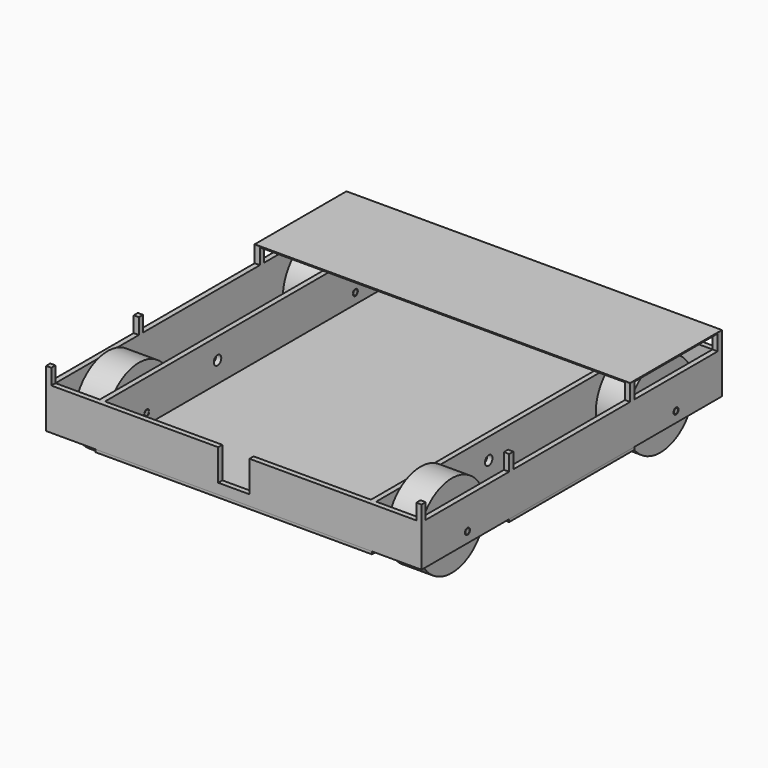
from build123d import *

# Parameters (mm, degrees)
F0_W          = 12.7
F0_H          = 889
F1_DEPTH      = 76.2
F1_DEPTH_BACK = 25.4
F2_R          = 7.62
F3_DEPTH      = 12.701
F3_DEPTH_BACK = 901.701
F4_W          = 19.05
F4_H          = 6.35
F4_W_2        = 6.35
F4_H_2        = 19.05
F8_W          = 12.7
F8_H          = 12.7
F9_DEPTH      = 38.1
F10_W         = 914.4
F10_H         = 279.4
F11_DEPTH     = 2.54
F13_DEPTH     = 6.35
F14_R         = 11.43
F15_DEPTH     = 762
F16_W         = 76.2
F16_H         = 76.2
F17_DEPTH     = 25.4


with BuildPart() as f1:
    # F0 (on Top) → F1 (new body, two sides)
    with BuildSketch(Plane.XY) as f1_sk:
        with Locations((-450.85, 0)):
            Rectangle(F0_W, F0_H)
        with Locations((-330.2, 0)):
            Rectangle(F0_W, F0_H)
        Polygon((-323.85, 444.5), (0, 444.5), (323.85, 444.5), (336.55, 444.5), (444.5, 444.5), (457.2, 444.5), (457.2, 457.2), (-457.2, 457.2), (-457.2, 444.5), (-444.5, 444.5), (-336.55, 444.5), align=None)
        with Locations((330.2, 0)):
            Rectangle(F0_W, F0_H)
        with Locations((450.85, 0)):
            Rectangle(F0_W, F0_H)
        Polygon((-254, -444.5), (-323.85, -444.5), (-336.55, -444.5), (-444.5, -444.5), (-457.2, -444.5), (-457.2, -457.2), (-241.3, -457.2), (-38.1, -457.2), (457.2, -457.2), (457.2, -444.5), (444.5, -444.5), (336.55, -444.5), (323.85, -444.5), (114.3, -444.5), align=None)
    extrude(amount=F1_DEPTH)
    extrude(f1_sk.sketch, amount=-F1_DEPTH_BACK)

    # F2 (on face) → F3 (cut, two sides)
    with BuildSketch(Plane(origin=(444.5, 0, 0), x_dir=(0, -1, 0), z_dir=(-1, 0, 0))) as f3_sk:
        with Locations((-317.5, 0)):
            Circle(F2_R)
        with Locations((317.5, 0)):
            Circle(F2_R)
    extrude(amount=-F3_DEPTH, mode=Mode.SUBTRACT)
    extrude(f3_sk.sketch, amount=F3_DEPTH_BACK, mode=Mode.SUBTRACT)

    # F8 (on face) → F9 (join)
    with BuildSketch(Plane.XY.offset(76.2)):
        with Locations((-450.85, 450.85)):
            Rectangle(F8_W, F8_H)
        with Locations((-450.85, 184.15)):
            Rectangle(F8_W, F8_H)
        with Locations((450.85, 450.85)):
            Rectangle(F8_W, F8_H)
        with Locations((450.85, 184.15)):
            Rectangle(F8_W, F8_H)
        with Locations((450.85, -450.85)):
            Rectangle(F8_W, F8_H)
        with Locations((-450.85, -450.85)):
            Rectangle(F8_W, F8_H)
        with Locations((450.85, -184.15)):
            Rectangle(F8_W, F8_H)
        with Locations((-450.85, -184.15)):
            Rectangle(F8_W, F8_H)
    extrude(amount=F9_DEPTH)

    # F14 (on face) → F15 (cut)
    with BuildSketch(Plane(origin=(-336.55, 0, 0), x_dir=(0, -1, 0), z_dir=(-1, 0, 0))):
        with Locations((101.9485071301, 25.4)):
            Circle(F14_R)
    extrude(amount=-F15_DEPTH, mode=Mode.SUBTRACT)

    # F16 (on face) → F17 (cut)
    with BuildSketch(Plane.XZ.offset(457.2)):
        with Locations((0, 38.1)):
            Rectangle(F16_W, F16_H)
    extrude(amount=-F17_DEPTH, mode=Mode.SUBTRACT)


with BuildPart() as f5:
    # F4 (on Top) → F5 (revolve)
    with BuildSketch(Plane.XY):
        Polygon((-342.9, 419.1), (-419.1, 419.1), (-419.1, 323.85), (-419.1, 317.5), (-342.9, 317.5), (-342.9, 323.85), align=None)
        with Locations((-333.375, 320.675)):
            Rectangle(F4_W, F4_H)
        Polygon((-419.1, 317.5), (-419.1, 323.85), (-425.45, 323.85), (-431.8, 323.85), (-457.2, 323.85), (-457.2, 317.5), align=None)
        with Locations((-428.625, 333.375)):
            Rectangle(F4_W_2, F4_H_2)
    revolve(axis=Axis((-381, 317.5, 0), (1, 0, 0)))


with BuildPart() as f6_1:
    # F6: instance of F5
    add(f5.part.mirror(Plane.YZ))


with BuildPart() as f7_1:
    # F7: instance of F5
    add(f5.part.mirror(Plane.XZ))


with BuildPart() as f7_2:
    # F7: instance of F6_1
    add(f6_1.part.mirror(Plane.XZ))


with BuildPart() as f11:
    # F10 (on face) → F11 (new body)
    with BuildSketch(Plane.XY.offset(114.3)):
        with Locations((0, 317.5)):
            Rectangle(F10_W, F10_H)
    extrude(amount=F11_DEPTH)


with BuildPart() as f13:
    # F12 (on face) → F13 (new body)
    with BuildSketch(Plane(origin=(0, 0, -25.4), x_dir=(1, 0, 0), z_dir=(0, 0, -1))):
        Polygon((-457.2, 190.5), (-457.2, 0), (-457.2, -190.5), (-336.55, -190.5), (-336.55, -457.2), (0, -457.2), (336.55, -457.2), (336.55, -190.5), (457.2, -190.5), (457.2, 0), (457.2, 190.5), (336.55, 190.5), (336.55, 457.2), (0, 457.2), (-336.55, 457.2), (-336.55, 190.5), align=None)
    extrude(amount=F13_DEPTH)


solid = Compound([f1.part, f5.part, f6_1.part, f7_1.part, f7_2.part, f11.part, f13.part])
